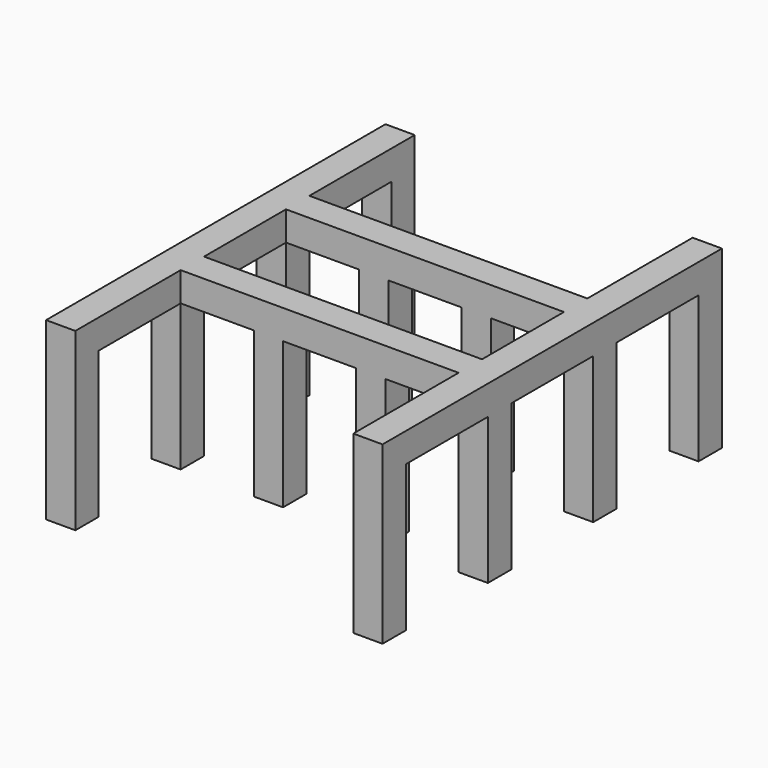
from build123d import *

# Parameters (mm, degrees)
BOX085056_W     = 4
BOX085056_H     = 58
BOX085056_DEPTH = 4
BOX085057_W     = 4
BOX085057_H     = 4
BOX085057_DEPTH = 20
BOX085058_W     = 4
BOX085058_H     = 4
BOX085058_DEPTH = 20
BOX085059_W     = 4
BOX085059_H     = 4
BOX085059_DEPTH = 20
BOX085060_W     = 4
BOX085060_H     = 4
BOX085060_DEPTH = 20
BOX085061_W     = 4
BOX085061_H     = 4
BOX085061_DEPTH = 20
BOX085062_W     = 4
BOX085062_H     = 4
BOX085062_DEPTH = 20
BOX085063_W     = 4
BOX085063_H     = 4
BOX085063_DEPTH = 20
BOX085064_W     = 4
BOX085064_H     = 4
BOX085064_DEPTH = 20
BOX085065_W     = 38
BOX085065_H     = 4
BOX085065_DEPTH = 4
BOX085066_W     = 38
BOX085066_H     = 4
BOX085066_DEPTH = 4
BOX085067_W     = 4
BOX085067_H     = 4
BOX085067_DEPTH = 20
BOX085068_W     = 4
BOX085068_H     = 4
BOX085068_DEPTH = 20
BOX085069_W     = 4
BOX085069_H     = 4
BOX085069_DEPTH = 20
BOX085070_W     = 4
BOX085070_H     = 4
BOX085070_DEPTH = 20
BOX085055_W     = 4
BOX085055_H     = 58
BOX085055_DEPTH = 4


with BuildPart() as cube142:
    # Box085056 → Box085056 (new body)
    with BuildSketch(Plane(origin=(107, 2, 22), x_dir=(1, 0, 0), z_dir=(0, 0, 1))):
        with Locations((2, 29)):
            Rectangle(BOX085056_W, BOX085056_H)
    extrude(amount=BOX085056_DEPTH)


with BuildPart() as cube143:
    # Box085057 → Box085057 (new body)
    with BuildSketch(Plane(origin=(65, 38, 2), x_dir=(1, 0, 0), z_dir=(0, 0, 1))):
        with Locations((2, 2)):
            Rectangle(BOX085057_W, BOX085057_H)
    extrude(amount=BOX085057_DEPTH)


with BuildPart() as cube144:
    # Box085058 → Box085058 (new body)
    with BuildSketch(Plane(origin=(65, 2, 2), x_dir=(1, 0, 0), z_dir=(0, 0, 1))):
        with Locations((2, 2)):
            Rectangle(BOX085058_W, BOX085058_H)
    extrude(amount=BOX085058_DEPTH)


with BuildPart() as cube145:
    # Box085059 → Box085059 (new body)
    with BuildSketch(Plane(origin=(65, 56, 2), x_dir=(1, 0, 0), z_dir=(0, 0, 1))):
        with Locations((2, 2)):
            Rectangle(BOX085059_W, BOX085059_H)
    extrude(amount=BOX085059_DEPTH)


with BuildPart() as cube146:
    # Box085060 → Box085060 (new body)
    with BuildSketch(Plane(origin=(107, 38, 2), x_dir=(1, 0, 0), z_dir=(0, 0, 1))):
        with Locations((2, 2)):
            Rectangle(BOX085060_W, BOX085060_H)
    extrude(amount=BOX085060_DEPTH)


with BuildPart() as cube147:
    # Box085061 → Box085061 (new body)
    with BuildSketch(Plane(origin=(107, 2, 2), x_dir=(1, 0, 0), z_dir=(0, 0, 1))):
        with Locations((2, 2)):
            Rectangle(BOX085061_W, BOX085061_H)
    extrude(amount=BOX085061_DEPTH)


with BuildPart() as cube148:
    # Box085062 → Box085062 (new body)
    with BuildSketch(Plane(origin=(107, 56, 2), x_dir=(1, 0, 0), z_dir=(0, 0, 1))):
        with Locations((2, 2)):
            Rectangle(BOX085062_W, BOX085062_H)
    extrude(amount=BOX085062_DEPTH)


with BuildPart() as cube149:
    # Box085063 → Box085063 (new body)
    with BuildSketch(Plane(origin=(65, 20, 2), x_dir=(1, 0, 0), z_dir=(0, 0, 1))):
        with Locations((2, 2)):
            Rectangle(BOX085063_W, BOX085063_H)
    extrude(amount=BOX085063_DEPTH)


with BuildPart() as cube150:
    # Box085064 → Box085064 (new body)
    with BuildSketch(Plane(origin=(107, 20, 2), x_dir=(1, 0, 0), z_dir=(0, 0, 1))):
        with Locations((2, 2)):
            Rectangle(BOX085064_W, BOX085064_H)
    extrude(amount=BOX085064_DEPTH)


with BuildPart() as cube151:
    # Box085065 → Box085065 (new body)
    with BuildSketch(Plane(origin=(69, 20, 22), x_dir=(1, 0, 0), z_dir=(0, 0, 1))):
        with Locations((19, 2)):
            Rectangle(BOX085065_W, BOX085065_H)
    extrude(amount=BOX085065_DEPTH)


with BuildPart() as cube152:
    # Box085066 → Box085066 (new body)
    with BuildSketch(Plane(origin=(69, 38, 22), x_dir=(1, 0, 0), z_dir=(0, 0, 1))):
        with Locations((19, 2)):
            Rectangle(BOX085066_W, BOX085066_H)
    extrude(amount=BOX085066_DEPTH)


with BuildPart() as cube153:
    # Box085067 → Box085067 (new body)
    with BuildSketch(Plane(origin=(79, 20, 2), x_dir=(1, 0, 0), z_dir=(0, 0, 1))):
        with Locations((2, 2)):
            Rectangle(BOX085067_W, BOX085067_H)
    extrude(amount=BOX085067_DEPTH)


with BuildPart() as cube154:
    # Box085068 → Box085068 (new body)
    with BuildSketch(Plane(origin=(93, 20, 2), x_dir=(1, 0, 0), z_dir=(0, 0, 1))):
        with Locations((2, 2)):
            Rectangle(BOX085068_W, BOX085068_H)
    extrude(amount=BOX085068_DEPTH)


with BuildPart() as cube155:
    # Box085069 → Box085069 (new body)
    with BuildSketch(Plane(origin=(79, 38, 2), x_dir=(1, 0, 0), z_dir=(0, 0, 1))):
        with Locations((2, 2)):
            Rectangle(BOX085069_W, BOX085069_H)
    extrude(amount=BOX085069_DEPTH)


with BuildPart() as cube156:
    # Box085070 → Box085070 (new body)
    with BuildSketch(Plane(origin=(93, 38, 2), x_dir=(1, 0, 0), z_dir=(0, 0, 1))):
        with Locations((2, 2)):
            Rectangle(BOX085070_W, BOX085070_H)
    extrude(amount=BOX085070_DEPTH)


with BuildPart() as drawer_rails:
    # Box085055 → Box085055 (new body)
    with BuildSketch(Plane(origin=(65, 2, 22), x_dir=(1, 0, 0), z_dir=(0, 0, 1))):
        with Locations((2, 29)):
            Rectangle(BOX085055_W, BOX085055_H)
    extrude(amount=BOX085055_DEPTH)

    # Fusion004008002002002001007002002018: union Cube142, Cube143, Cube144, Cube145, Cube146, Cube147, Cube148, Cube149, Cube150, Cube151, Cube152, Cube153, Cube154, Cube155, Cube156
    add(cube142.part)
    add(cube143.part)
    add(cube144.part)
    add(cube145.part)
    add(cube146.part)
    add(cube147.part)
    add(cube148.part)
    add(cube149.part)
    add(cube150.part)
    add(cube151.part)
    add(cube152.part)
    add(cube153.part)
    add(cube154.part)
    add(cube155.part)
    add(cube156.part)


solid = drawer_rails.part
